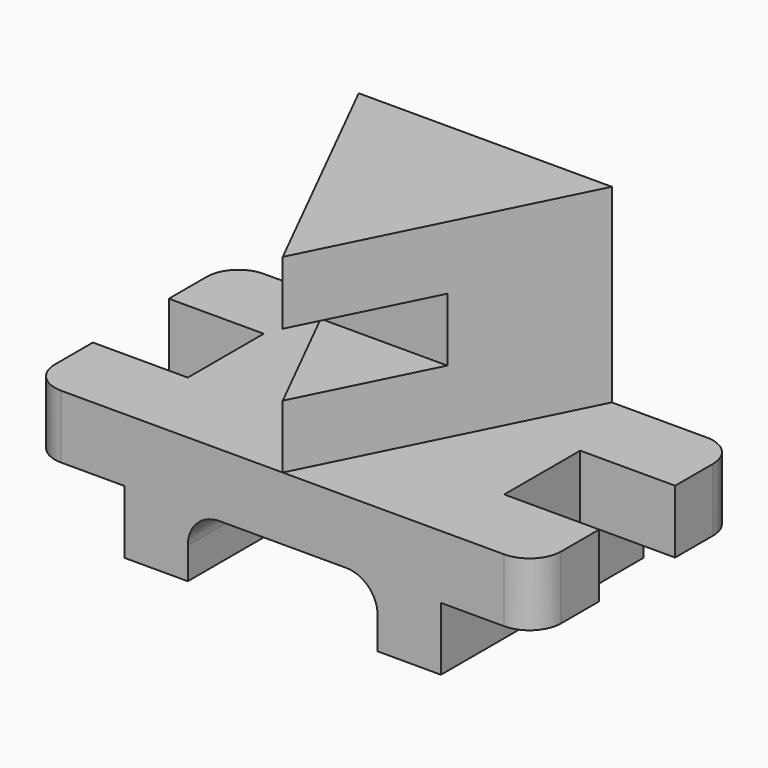
from build123d import *

# Parameters (mm, degrees)
F0_W      = 203.2
F0_H      = 127
F1_DEPTH  = 101.6
F2_R      = 12.7
F3_W      = 12.7
F3_H      = 25.4
F3_W_2    = 25.4
F4_DEPTH  = 101.601
F5_W      = 38.1
F5_H      = 19.05
F6_DEPTH  = 127.001
F8_DEPTH  = 76.2
F10_DEPTH = 101.601
F12_START = -25.4
F12_DEPTH = 25.4


with BuildPart() as f1:
    # F0 (on Front) → F1 (new body)
    with BuildSketch(Plane.XZ):
        with Locations((101.6, 63.5)):
            Rectangle(F0_W, F0_H)
    extrude(amount=F1_DEPTH)

    # F2
    f2_edges = [f1.edges().sort_by_distance(p)[0] for p in [
        (0, 0, 63.5),
        (0, -101.6, 63.5),
        (203.2, -101.6, 63.5),
        (203.2, 0, 63.5),
    ]]
    fillet(f2_edges, radius=F2_R)

    # F3 (on face) → F4 (cut, through all)
    with BuildSketch(Plane.XZ.offset(101.6)):
        with Locations((6.35, 12.7)):
            Rectangle(F3_W, F3_H)
        with Locations((25.4, 12.7)):
            Rectangle(F3_W_2, F3_H)
        with Locations((177.8, 12.7)):
            Rectangle(F3_W_2, F3_H)
        with Locations((196.85, 12.7)):
            Rectangle(F3_W, F3_H)
    extrude(amount=-F4_DEPTH, mode=Mode.SUBTRACT)

    # F5 (on face) → F6 (cut, through all)
    with BuildSketch(Plane.XY.offset(127)):
        with Locations((184.15, -41.275)):
            Rectangle(F5_W, F5_H)
        with Locations((184.15, -60.325)):
            Rectangle(F5_W, F5_H)
        with Locations((19.05, -41.275)):
            Rectangle(F5_W, F5_H)
        with Locations((19.05, -60.325)):
            Rectangle(F5_W, F5_H)
    extrude(amount=-F6_DEPTH, mode=Mode.SUBTRACT)

    # F7 (on face) → F8 (cut)
    with BuildSketch(Plane.XY.offset(127)):
        with BuildLine():
            Line((12.7, -101.6), (101.6, -101.6))
            Line((101.6, -101.6), (50.8, 0))
            Line((50.8, 0), (12.7, 0))
            ThreePointArc((12.7, 0), (3.7197438789, -3.7197438789), (0, -12.7))
            Line((0, -12.7), (0, -31.75))
            Line((0, -31.75), (38.1, -31.75))
            Line((38.1, -31.75), (38.1, -69.85))
            Line((38.1, -69.85), (0, -69.85))
            Line((0, -69.85), (0, -88.9))
            ThreePointArc((0, -88.9), (3.7197438789, -97.8802561211), (12.7, -101.6))
        make_face()
        with BuildLine():
            Line((190.5, 0), (152.4, 0))
            Line((152.4, 0), (101.6, -101.6))
            Line((101.6, -101.6), (190.5, -101.6))
            ThreePointArc((190.5, -101.6), (199.4802561211, -97.8802561211), (203.2, -88.9))
            Line((203.2, -88.9), (203.2, -69.85))
            Line((203.2, -69.85), (165.1, -69.85))
            Line((165.1, -69.85), (165.1, -31.75))
            Line((165.1, -31.75), (203.2, -31.75))
            Line((203.2, -31.75), (203.2, -12.7))
            ThreePointArc((203.2, -12.7), (199.4802561211, -3.7197438789), (190.5, 0))
        make_face()
    extrude(amount=-F8_DEPTH, mode=Mode.SUBTRACT)

    # F9 (on face) → F10 (cut, through all)
    with BuildSketch(Plane.XZ.offset(101.6)):
        with BuildLine():
            Line((63.499994576, 0), (101.6, 0))
            Line((101.6, 0), (101.6, 25.4000015557))
            Line((101.6, 25.4000015557), (76.199994576, 25.4000015557))
            ThreePointArc((76.199994576, 25.4000015557), (67.2197384549, 21.6802576768), (63.499994576, 12.7000015557))
            Line((63.499994576, 12.7000015557), (63.499994576, 0))
        make_face()
        with BuildLine():
            Line((101.6, 25.4000015557), (101.6, 0))
            Line((101.6, 0), (139.700005424, 0))
            Line((139.700005424, 0), (139.700005424, 12.7000015557))
            ThreePointArc((139.700005424, 12.7000015557), (135.9802615451, 21.6802576768), (127.000005424, 25.4000015557))
            Line((127.000005424, 25.4000015557), (101.6, 25.4000015557))
        make_face()
    extrude(amount=-F10_DEPTH, mode=Mode.SUBTRACT)

    # F11 (on face) → F12 (cut)
    with BuildSketch(Plane.XY.offset(127).offset(F12_START)):
        Polygon((127, -50.8), (76.2, -50.8), (101.6, -101.6), align=None)
    extrude(amount=-F12_DEPTH, mode=Mode.SUBTRACT)


solid = f1.part
